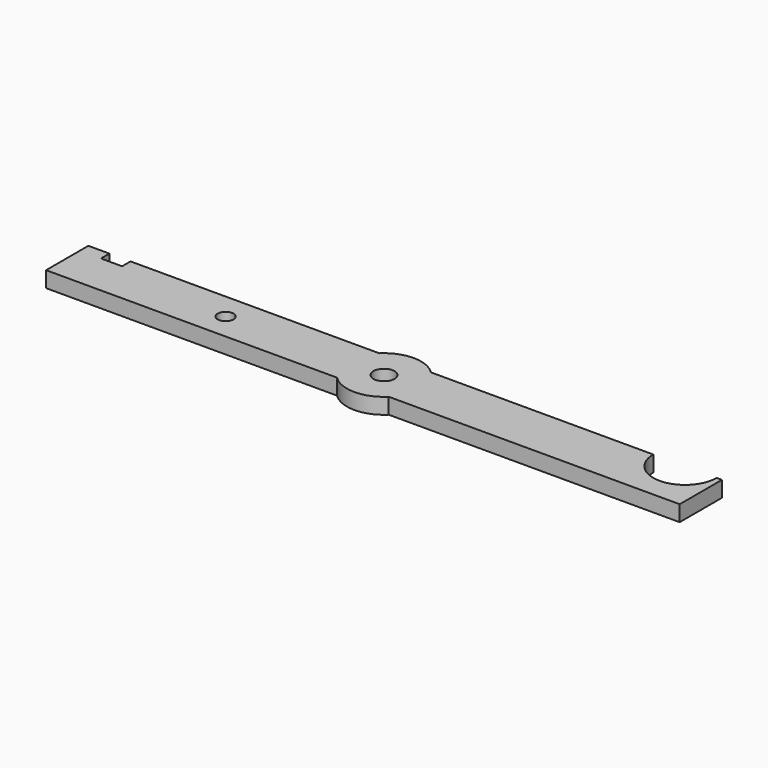
from build123d import *

# Parameters (mm, degrees)
F0_R     = 1.5
F0_R_2   = 2
F1_DEPTH = 3


with BuildPart() as f1:
    # F0 (on Top) → F1 (new body)
    with BuildSketch(Plane.XY):
        with BuildLine():
            Line((-60, -5), (-4.8989794856, -5))
            ThreePointArc((-4.8989794856, -5), (-7, 0), (-4.8989794856, 5))
            Line((-4.8989794856, 5), (-52, 5))
            Line((-52, 5), (-52, 3))
            Line((-52, 3), (-56, 3))
            Line((-56, 3), (-56, 5))
            Line((-56, 5), (-60, 5))
            Line((-60, 5), (-60, -5))
        make_face()
        with Locations((-30, 0)):
            Circle(F0_R, mode=Mode.SUBTRACT)
        with BuildLine():
            Line((-4.8989794856, -5), (4.8989794856, -5))
            ThreePointArc((4.8989794856, -5), (6.4534043883, -2.7117470016), (7, 0))
            ThreePointArc((7, 0), (6.4534043883, 2.7117470016), (4.8989794856, 5))
            Line((4.8989794856, 5), (-4.8989794856, 5))
            ThreePointArc((-4.8989794856, 5), (-7, 0), (-4.8989794856, -5))
        make_face()
        Circle(F0_R_2, mode=Mode.SUBTRACT)
        with BuildLine():
            ThreePointArc((4.8989794856, 5), (0, 7), (-4.8989794856, 5))
            Line((-4.8989794856, 5), (4.8989794856, 5))
        make_face()
        with BuildLine():
            ThreePointArc((-4.8989794856, -5), (0, -7), (4.8989794856, -5))
            Line((4.8989794856, -5), (-4.8989794856, -5))
        make_face()
        with BuildLine():
            Line((4.8989794856, -5), (60, -5))
            Line((60, -5), (60, 5))
            Line((60, 5), (59, 5))
            ThreePointArc((59, 5), (53, -1), (47, 5))
            Line((47, 5), (4.8989794856, 5))
            ThreePointArc((4.8989794856, 5), (6.4534043883, 2.7117470016), (7, 0))
            ThreePointArc((7, 0), (6.4534043883, -2.7117470016), (4.8989794856, -5))
        make_face()
    extrude(amount=F1_DEPTH)


solid = f1.part
